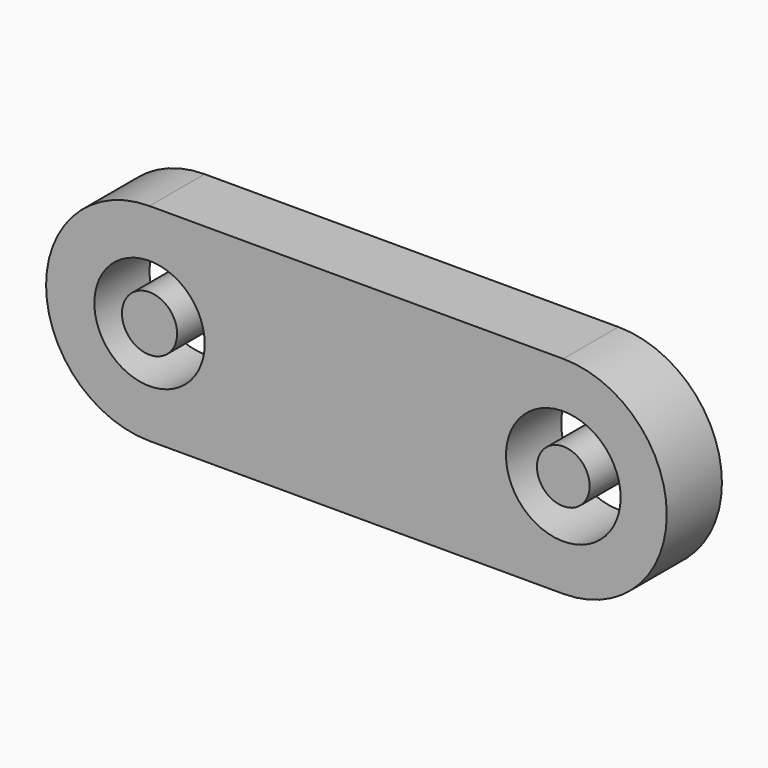
from build123d import *

# Parameters (mm, degrees)
F0_R     = 101.6
F0_R_2   = 105.536712
F0_R_3   = 50.8
F0_R_4   = 48.511603
F1_DEPTH = 127


with BuildPart() as f1:
    # F0 (on Front) → F1 (new body)
    with BuildSketch(Plane.XZ):
        with BuildLine():
            ThreePointArc((0, 381), (-190.5, 190.5), (0, 0))
            Line((0, 0), (762, 0))
            ThreePointArc((762, 0), (952.5, 190.5), (762, 381))
            Line((762, 381), (0, 381))
        make_face()
        with Locations((0, 190.5)):
            Circle(F0_R, mode=Mode.SUBTRACT)
        with Locations((762, 190.5)):
            Circle(F0_R_2, mode=Mode.SUBTRACT)
        with Locations((0, 190.5)):
            Circle(F0_R_3)
        with Locations((762, 190.5)):
            Circle(F0_R_4)
    extrude(amount=F1_DEPTH)


solid = f1.part
